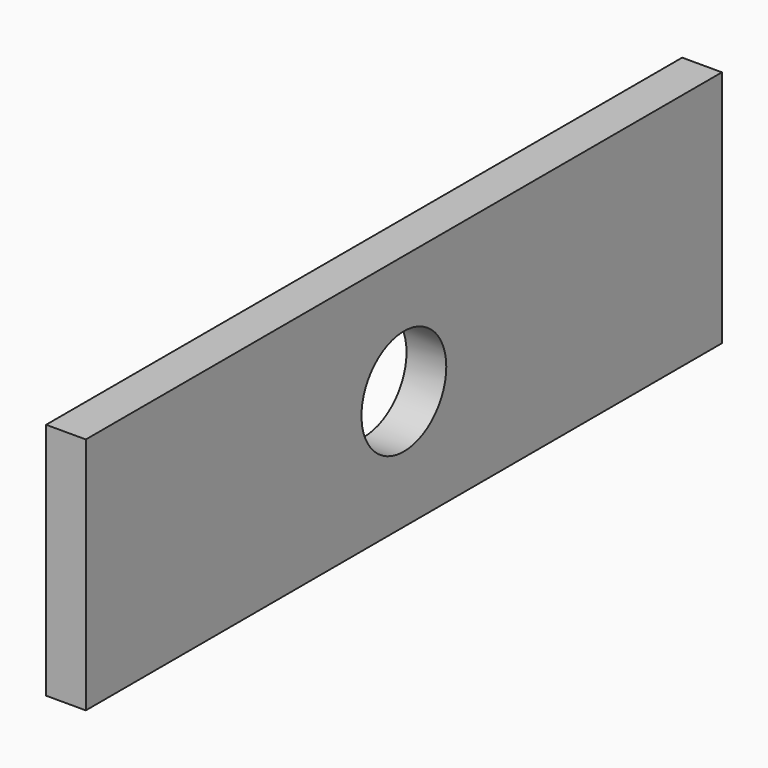
from build123d import *

# Parameters (mm, degrees)
F0_W     = 381
F0_H     = 114.3
F0_R     = 25.4
F1_DEPTH = 19.05


with BuildPart() as f1:
    # F0 (on Right) → F1 (new body)
    with BuildSketch(Plane.YZ):
        Rectangle(F0_W, F0_H)
        Circle(F0_R, mode=Mode.SUBTRACT)
    extrude(amount=F1_DEPTH)


solid = f1.part
